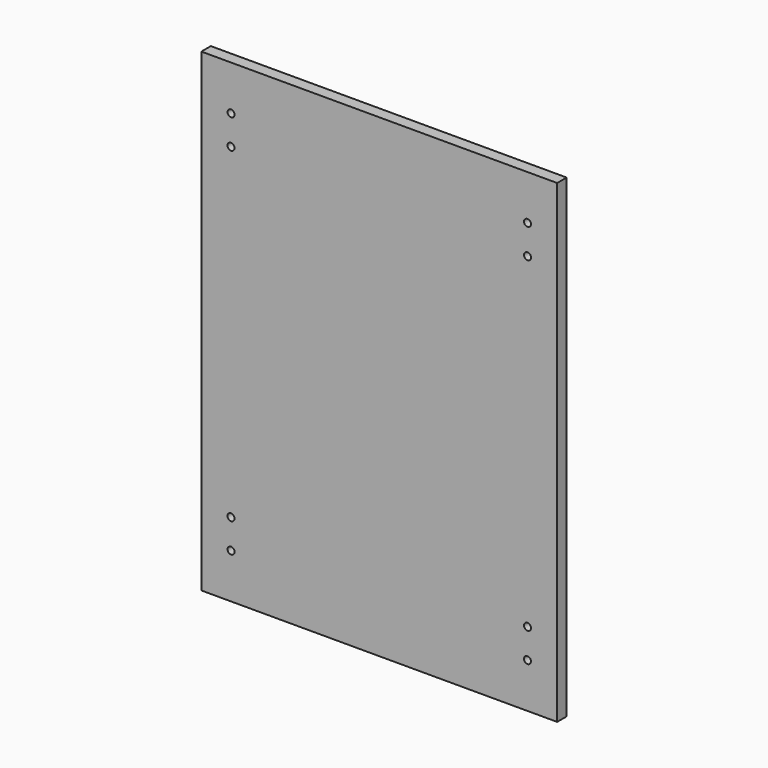
from build123d import *

# Parameters (mm, degrees)
F0_W     = 152.4
F0_H     = 203.2
F1_DEPTH = 5.08
F3_R     = 1.5
F4_DEPTH = 0.3
F5_DEPTH = 25.4


with BuildPart() as f1:
    # F0 (on Front) → F1 (new body)
    with BuildSketch(Plane.XZ):
        Rectangle(F0_W, F0_H)
    extrude(amount=F1_DEPTH)

    # F3 (on face) → F4 (cut)
    with BuildSketch(Plane.XZ.offset(5.08)):
        with Locations((-63.478535, 82.432186)):
            Circle(F3_R)
        with Locations((-63.513085, 69.856319)):
            Circle(F3_R)
    extrude(amount=-F4_DEPTH, mode=Mode.SUBTRACT)

    # F3 (on face) → F5 (cut)
    with BuildSketch(Plane.XZ.offset(5.08)):
        with Locations((-63.478535, 82.432186)):
            Circle(F3_R)
        with Locations((-63.513085, 69.856319)):
            Circle(F3_R)
    extrude(amount=-F5_DEPTH, mode=Mode.SUBTRACT)

    # F6: F1 across plane


with BuildPart() as f1_1:
    add(f1.part)
    add(f1.part.mirror(Plane.YZ), mode=Mode.INTERSECT)

    # F7: F1 across plane


with BuildPart() as f1_2:
    add(f1_1.part)
    add(f1_1.part.mirror(Plane.XY), mode=Mode.INTERSECT)


solid = f1_2.part
